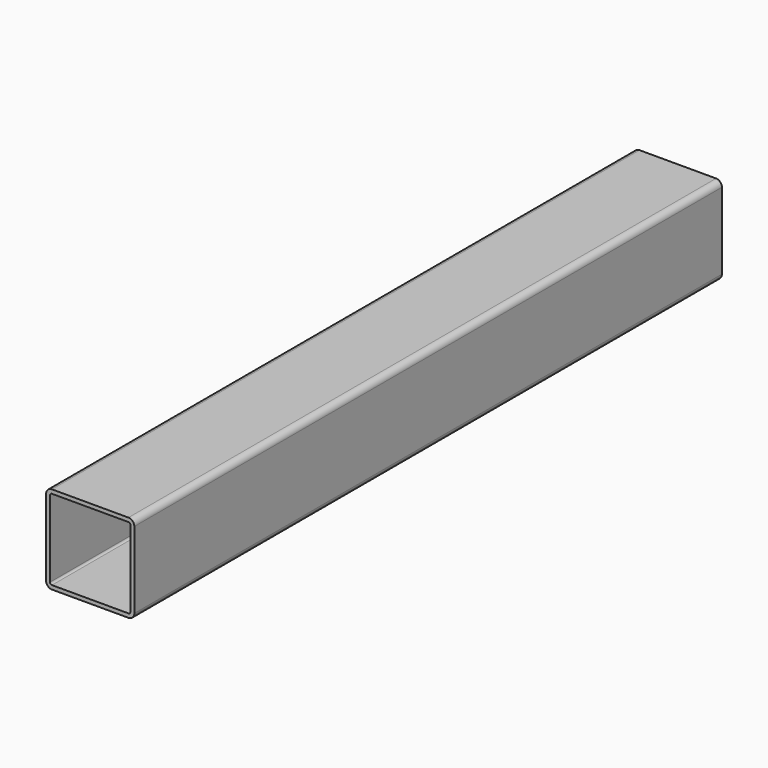
from build123d import *

# Parameters (mm, degrees)
F1_DEPTH = 749


with BuildPart() as f1:
    # F0 (on Front) → F1 (new body)
    with BuildSketch(Plane.XZ):
        with BuildLine():
            ThreePointArc((45, 39), (43.242641, 43.242641), (39, 45))
            Line((39, 45), (-39, 45))
            ThreePointArc((-39, 45), (-43.242641, 43.242641), (-45, 39))
            Line((-45, 39), (-45, -39))
            ThreePointArc((-45, -39), (-43.242641, -43.242641), (-39, -45))
            Line((-39, -45), (39, -45))
            ThreePointArc((39, -45), (43.242641, -43.242641), (45, -39))
            Line((45, -39), (45, 39))
        make_face()
        with BuildLine():
            ThreePointArc((-41, 39), (-40.414214, 40.414214), (-39, 41))
            Line((-39, 41), (39, 41))
            ThreePointArc((39, 41), (40.414214, 40.414214), (41, 39))
            Line((41, 39), (41, -39))
            ThreePointArc((41, -39), (40.414214, -40.414214), (39, -41))
            Line((39, -41), (-39, -41))
            ThreePointArc((-39, -41), (-40.414214, -40.414214), (-41, -39))
            Line((-41, -39), (-41, 39))
        make_face(mode=Mode.SUBTRACT)
    extrude(amount=-F1_DEPTH)


solid = f1.part
